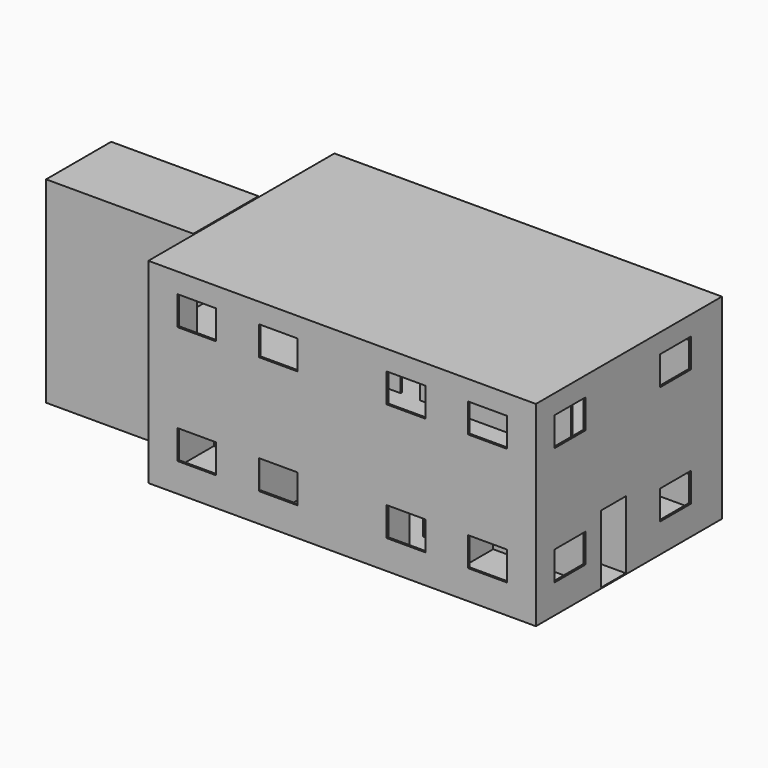
from build123d import *

# Parameters (mm, degrees)
F0_W      = 10000
F0_H      = 6000
F2_DEPTH  = 25
F1_W      = 807.6471351087
F1_H      = 50
F3_DEPTH  = 2500
F5_W      = 10000
F5_H      = 6000
F6_DEPTH  = 200
F7_W      = 50
F7_H      = 800
F7_W_2    = 807.6471351087
F7_H_2    = 50
F7_W_3    = 1750
F7_W_4    = 500
F7_H_3    = 500
F7_W_5    = 400
F8_DEPTH  = 750
F11_W     = 750
F11_H     = 1250
F12_DEPTH = 1000
F13_W     = 800
F13_H     = 1250
F14_DEPTH = 1000
F15_W     = 2000
F15_H     = 200
F16_DEPTH = 1000
F17_W     = 2100
F17_H     = 5075
F17_W_2   = 2000
F17_H_2   = 5000
F18_DEPTH = 3750
F19_W     = 2100
F19_H     = 5075
F20_DEPTH = 50
F21_W     = 50
F21_H     = 1000
F21_W_2   = 3950
F21_H_2   = 50
F21_W_3   = 3900
F22_DEPTH = 2500
F23_W     = 500
F23_H     = 50
F23_W_2   = 50
F23_H_2   = 1000
F23_W_3   = 3950
F23_W_4   = 3900
F24_DEPTH = 750
F25_W     = 10000
F25_H     = 6000
F26_DEPTH = 25
F27_W     = 1000
F27_H     = 750
F28_DEPTH = 50
F29_W     = 1000
F29_H     = 750
F30_DEPTH = 50
F31_W     = 1000
F31_H     = 750
F32_DEPTH = 50


with BuildPart() as f2:
    # F0 (on Top) → F2 (new body)
    with BuildSketch(Plane.XY):
        with Locations((5000, 3000)):
            Rectangle(F0_W, F0_H)
    extrude(amount=-F2_DEPTH)

    # F1 (on Top) → F3 (join)
    with BuildSketch(Plane.XY):
        Polygon((0, 2100), (0, 0), (2792.3528648913, 0), (2792.3528648913, 2100), (2300, 2100), (2300, 2050), (2742.3528648913, 2050), (2742.3528648913, 50), (50, 50), (50, 2050), (1800, 2050), (1800, 2100), align=None)
        Polygon((2792.3528648913, 2100), (2792.3528648913, 0), (4192.3528648913, 0), (4192.3528648913, 50), (4192.3528648913, 1100), (4142.3528648913, 1100), (4142.3528648913, 50), (2842.3528648913, 50), (2842.3528648913, 2050), (4142.3528648913, 2050), (4142.3528648913, 1600), (4192.3528648913, 1600), (4192.3528648913, 2100), align=None)
        with Locations((4596.1764324456, 25)):
            Rectangle(F1_W, F1_H)
        Polygon((2800, 6000), (0, 6000), (0, 2900), (1800, 2900), (1800, 2950), (50, 2950), (50, 5950), (2750, 5950), (2750, 2950), (2303.6937713623, 2950), (2300, 2900), (2800, 2900), align=None)
        Polygon((4600, 6000), (2800, 6000), (2800, 2900), (3300, 2900), (3300, 2950), (2850, 2950), (2850, 5950), (4550, 5950), (4550, 2950), (3800.9090423584, 2950), (3800, 2900), (4600, 2900), align=None)
    extrude(amount=F3_DEPTH)

    # F5 (on offset) → F6 (join)
    with BuildSketch(Plane.XY.offset(2500)):
        with Locations((5000, 3000)):
            Rectangle(F5_W, F5_H)
    extrude(amount=-F6_DEPTH)

    # F7 (on offset) → F8 (join)
    with BuildSketch(Plane.XY.offset(2500)):
        Polygon((0, 2100), (0, 0), (2792.3528648913, 0), (2792.3528648913, 2100), (2300, 2100), (2300, 2050), (2742.3528648913, 2050), (2742.3528648913, 50), (50, 50), (50, 2050), (50, 2100), align=None)
        Polygon((2792.3528648913, 2100), (2792.3528648913, 0), (4192.3528648913, 0), (4192.3528648913, 50), (4192.3528648913, 1100), (4142.3528648913, 1100), (4142.3528648913, 50), (2842.3528648913, 50), (2842.3528648913, 2050), (4142.3528648913, 2050), (4142.3528648913, 1600), (4192.3528648913, 1600), (4192.3528648913, 2100), align=None)
        with Locations((25, 2500)):
            Rectangle(F7_W, F7_H)
        with Locations((4596.1764324456, 25)):
            Rectangle(F7_W_2, F7_H_2)
        with Locations((925, 2075)):
            Rectangle(F7_W_3, F7_H_2)
        Polygon((0, 6000), (0, 2900), (50, 2900), (50, 2950), (50, 5950), (2750, 5950), (2750, 2950), (2303.6937713623, 2950), (2300, 2900), (2800, 2900), (2800, 6000), align=None)
        with Locations((2050, 2075)):
            Rectangle(F7_W_4, F7_H_2)
        with Locations((925, 2925)):
            Rectangle(F7_W_3, F7_H_2)
        with Locations((4167.3528648913, 1350)):
            Rectangle(F7_W, F7_H_3)
        Polygon((1800, 2950), (1800, 2900), (2300, 2900), (2303.6937713623, 2950), align=None)
        Polygon((4600, 6000), (2800, 6000), (2800, 2900), (3300, 2900), (3300, 2950), (2850, 2950), (2850, 5950), (4550, 5950), (4600, 5950), align=None)
        with Locations((4800, 5975)):
            Rectangle(F7_W_5, F7_H_2)
        Polygon((4600, 2900), (4600, 5950), (4550, 5950), (4550, 2950), (3800.9090423584, 2950), (3800, 2900), align=None)
        Polygon((3300, 2950), (3300, 2900), (3800, 2900), (3800.9090423584, 2950), align=None)
    extrude(amount=-F8_DEPTH)

    # F9: F2 across face


with BuildPart() as f2_1:
    add(f2.part)
    add(f2.part.mirror(Plane(origin=(5000, 25, 1150), x_dir=(0, 1, 0), z_dir=(1, 0, 0))))



with BuildPart() as f12:
    # F11 (on offset) → F12 (new body)
    with BuildSketch(Plane.XZ.offset(-2500)):
        Polygon((-1181.8181, 0), (-1000, 0), (-1181.8181, 113.6363125), align=None)
        Polygon((-1181.8181, 113.6363125), (-1000, 0), (-1000, 113.6363125), align=None)
        Polygon((-1363.6362, 0), (-1181.8181, 0), (-1181.8181, 113.6363125), (-1363.6362, 227.272625), align=None)
        Polygon((-1363.6362, 227.272625), (-1181.8181, 113.6363125), (-1181.8181, 227.272625), align=None)
        Polygon((-1545.4543, 0), (-1363.6362, 0), (-1363.6362, 227.272625), (-1545.4543, 340.9089375), align=None)
        Polygon((-1545.4543, 340.9089375), (-1363.6362, 227.272625), (-1363.6362, 340.9089375), align=None)
        Polygon((-1727.2723, 0), (-1545.4543, 0), (-1545.4543, 340.9089375), (-1727.2723, 454.5451875), align=None)
        Polygon((-1727.2723, 454.5451875), (-1545.4543, 340.9089375), (-1545.4543, 454.5451875), align=None)
        Polygon((-1909.0903, 0), (-1727.2723, 0), (-1727.2723, 454.5451875), (-1909.0903, 568.1814375), align=None)
        Polygon((-1909.0903, 568.1814375), (-1727.2723, 454.5451875), (-1727.2723, 568.1814375), align=None)
        Polygon((-2090.90218, 0), (-1909.0903, 0), (-1909.0903, 568.1814375), (-2090.90218, 681.8138625), align=None)
        Polygon((-2090.90218, 681.8138625), (-1909.0903, 568.1814375), (-1909.0903, 681.8138625), align=None)
        Polygon((-2272.72028, 0), (-2090.90218, 0), (-2090.90218, 681.8138625), (-2272.72028, 795.450175), align=None)
        Polygon((-2272.72028, 795.450175), (-2090.90218, 681.8138625), (-2090.90218, 795.450175), align=None)
        Polygon((-2454.53838, 0), (-2272.72028, 0), (-2272.72028, 795.450175), (-2454.53838, 909.0864875), align=None)
        Polygon((-2454.53838, 909.0864875), (-2272.72028, 795.450175), (-2272.72028, 909.0864875), align=None)
        Polygon((-2636.35638, 0), (-2454.53838, 0), (-2454.53838, 909.0864875), (-2636.35638, 1022.7227375), align=None)
        Polygon((-2636.35638, 1022.7227375), (-2454.53838, 909.0864875), (-2454.53838, 1022.7227375), align=None)
        Polygon((-2818.17448, 0), (-2636.35638, 0), (-2636.35638, 1022.7227375), (-2818.17448, 1136.35905), align=None)
        Polygon((-2818.17448, 1136.35905), (-2636.35638, 1022.7227375), (-2636.35638, 1136.35905), align=None)
        Polygon((-3000, 0), (-2818.17448, 0), (-2818.17448, 1136.35905), (-3000, 1250), align=None)
        Polygon((-3000, 1250), (-2818.17448, 1136.35905), (-2818.17448, 1250), align=None)
        with Locations((-3375, 625)):
            Rectangle(F11_W, F11_H)
    extrude(amount=-F12_DEPTH)

    # F13 (on offset) → F14 (join)
    with BuildSketch(Plane.XZ.offset(-2500)):
        with Locations((-3350, 625)):
            Rectangle(F13_W, F13_H)
        Polygon((-2950, 1250), (-2950, 0), (-950, 0), (-950, 1250), (-1131.8438, 1250), (-1313.6538, 1250), (-1495.4718, 1250), (-1677.2899, 1250), (-1859.0999, 1250), (-2040.9179, 1250), (-2222.7359, 1250), (-2404.5459, 1250), (-2586.3639, 1250), (-2768.1819, 1250), align=None)
        Polygon((-2768.1819, 1363.6363125), (-2950, 1250), (-2768.1819, 1250), align=None)
        Polygon((-2950, 1363.6363125), (-2950, 1250), (-2768.1819, 1363.6363125), align=None)
        Polygon((-2768.1819, 1363.6363125), (-2768.1819, 1250), (-2586.3639, 1250), (-2586.3639, 1477.2725625), align=None)
        Polygon((-2768.1819, 1477.2725625), (-2768.1819, 1363.6363125), (-2586.3639, 1477.2725625), align=None)
        Polygon((-1131.8438, 1250), (-950, 1250), (-950, 2500), (-1131.8438, 2386.347625), align=None)
        Polygon((-2586.3639, 1477.2725625), (-2586.3639, 1250), (-2404.5459, 1250), (-2404.5459, 1590.9088125), align=None)
        Polygon((-2586.3639, 1590.9088125), (-2586.3639, 1477.2725625), (-2404.5459, 1590.9088125), align=None)
        Polygon((-1313.6538, 1250), (-1131.8438, 1250), (-1131.8438, 2386.347625), (-1313.6538, 2272.716375), align=None)
        Polygon((-1131.8438, 2386.347625), (-950, 2500), (-1131.8438, 2500), align=None)
        Polygon((-2404.5459, 1590.9088125), (-2404.5459, 1250), (-2222.7359, 1250), (-2222.7359, 1704.5400625), align=None)
        Polygon((-2404.5459, 1704.5400625), (-2404.5459, 1590.9088125), (-2222.7359, 1704.5400625), align=None)
        Polygon((-1495.4718, 1250), (-1313.6538, 1250), (-1313.6538, 2272.716375), (-1495.4718, 2159.080125), align=None)
        Polygon((-1313.6538, 2272.716375), (-1131.8438, 2386.347625), (-1313.6538, 2386.347625), align=None)
        Polygon((-2222.7359, 1704.5400625), (-2222.7359, 1250), (-2040.9179, 1250), (-2040.9179, 1818.1763125), align=None)
        Polygon((-2222.7359, 1818.1763125), (-2222.7359, 1704.5400625), (-2040.9179, 1818.1763125), align=None)
        Polygon((-1677.2899, 1250), (-1495.4718, 1250), (-1495.4718, 2159.080125), (-1677.2899, 2045.4438125), align=None)
        Polygon((-1495.4718, 2159.080125), (-1313.6538, 2272.716375), (-1495.4718, 2272.716375), align=None)
        Polygon((-2040.9179, 1818.1763125), (-2040.9179, 1250), (-1859.0999, 1250), (-1859.0999, 1931.8125625), align=None)
        Polygon((-2040.9179, 1931.8125625), (-2040.9179, 1818.1763125), (-1859.0999, 1931.8125625), align=None)
        Polygon((-1859.0999, 1250), (-1677.2899, 1250), (-1677.2899, 2045.4438125), (-1859.0999, 1931.8125625), align=None)
        Polygon((-1677.2899, 2045.4438125), (-1495.4718, 2159.080125), (-1677.2899, 2159.080125), align=None)
        Polygon((-1859.0999, 2045.4438125), (-1859.0999, 1931.8125625), (-1677.2899, 2045.4438125), align=None)
    extrude(amount=F14_DEPTH)


with BuildPart() as f2_2:
    add(f2_1.part)

    add(f12.part)  # F16 merges F12
    # F15 (on face) → F16 (join)
    with BuildSketch(Plane(origin=(0, 0, 0), x_dir=(0, -1, 0), z_dir=(-1, 0, 0))):
        with Locations((-2500, 2400)):
            Rectangle(F15_W, F15_H)
    extrude(amount=F16_DEPTH)

    # F17 (on face) → F18 (join)
    with BuildSketch(Plane(origin=(-3750, 0, 0), x_dir=(0, -1, 0), z_dir=(-1, 0, 0))):
        with Locations((-2500, 2512.5)):
            Rectangle(F17_W, F17_H)
        with Locations((-2500, 2500)):
            Rectangle(F17_W_2, F17_H_2, mode=Mode.SUBTRACT)
    extrude(amount=-F18_DEPTH)

    # F19 (on face) → F20 (join)
    with BuildSketch(Plane(origin=(-3750, 0, 0), x_dir=(0, -1, 0), z_dir=(-1, 0, 0))):
        with Locations((-2500, 2512.5)):
            Rectangle(F19_W, F19_H)
    extrude(amount=F20_DEPTH)

    # F21 (on face) → F22 (join)
    with BuildSketch(Plane.XY.offset(2500)):
        Polygon((4000, 6000), (0, 6000), (0, 3550), (0, 3500), (2950, 3500), (2950, 3550), (50, 3550), (50, 5950), (3950, 5950), (3950, 3550), (3450, 3550), (3450, 3500), (4000, 3500), align=None)
        Polygon((7500, 6000), (4000, 6000), (4000, 3500), (4550, 3500), (4550, 3550), (4050, 3550), (4050, 5950), (7450, 5950), (7450, 3550), (5050, 3550), (5050, 3500), (7500, 3500), align=None)
        Polygon((10000, 6000), (7500, 6000), (7500, 3500), (8050, 3500), (8050, 3550), (7550, 3550), (7550, 5950), (9950, 5950), (9950, 3550), (8550, 3550), (8550, 3500), (9950, 3500), (10000, 3500), align=None)
        with Locations((9975, 3000)):
            Rectangle(F21_W, F21_H)
        Polygon((10000, 0), (10000, 2500), (9950, 2500), (9450, 2500), (9450, 2450), (9950, 2450), (9950, 50), (4050, 50), (4050, 2450), (4550, 2450), (4550, 2500), (4000, 2500), (4000, 50), (4000, 0), align=None)
        with Locations((2025, 25)):
            Rectangle(F21_W_2, F21_H_2)
        Polygon((0, 0), (50, 0), (50, 50), (50, 1500), (0, 1500), (0, 1450), align=None)
        with Locations((7000, 2475)):
            Rectangle(F21_W_3, F21_H_2)
    extrude(amount=F22_DEPTH)

    # F23 (on face) → F24 (join)
    with BuildSketch(Plane.XY.offset(5000)):
        Polygon((4000, 6000), (0, 6000), (0, 3550), (0, 3500), (2950, 3500), (2950, 3550), (50, 3550), (50, 5950), (3950, 5950), (3950, 3550), (3450, 3550), (3450, 3500), (4000, 3500), align=None)
        Polygon((7500, 6000), (4000, 6000), (4000, 3500), (4550, 3500), (4550, 3550), (4050, 3550), (4050, 5950), (7450, 5950), (7450, 3550), (5050, 3550), (5050, 3500), (7500, 3500), align=None)
        Polygon((10000, 6000), (7500, 6000), (7500, 3500), (8050, 3500), (8050, 3550), (7550, 3550), (7550, 5950), (9950, 5950), (9950, 3550), (8550, 3550), (8550, 3500), (9950, 3500), (10000, 3500), align=None)
        with Locations((4800, 3525)):
            Rectangle(F23_W, F23_H)
        with Locations((3200, 3525)):
            Rectangle(F23_W, F23_H)
        with Locations((9975, 3000)):
            Rectangle(F23_W_2, F23_H_2)
        with Locations((8300, 3525)):
            Rectangle(F23_W, F23_H)
        Polygon((10000, 0), (10000, 2500), (9950, 2500), (9450, 2500), (9450, 2450), (9950, 2450), (9950, 50), (4050, 50), (4050, 2450), (4550, 2450), (4550, 2500), (4000, 2500), (4000, 50), (4000, 0), align=None)
        with Locations((2025, 25)):
            Rectangle(F23_W_3, F23_H)
        with Locations((9200, 2475)):
            Rectangle(F23_W, F23_H)
        Polygon((0, 0), (50, 0), (50, 50), (50, 1500), (0, 1500), (0, 1450), align=None)
        with Locations((7000, 2475)):
            Rectangle(F23_W_4, F23_H)
        with Locations((4800, 2475)):
            Rectangle(F23_W, F23_H)
    extrude(amount=-F24_DEPTH)

    # F25 (on face) → F26 (join)
    with BuildSketch(Plane.XY.offset(5000)):
        with Locations((5000, 3000)):
            Rectangle(F25_W, F25_H)
    extrude(amount=F26_DEPTH)

    # F27 (on face) → F28 (cut)
    with BuildSketch(Plane(origin=(0, 6000, 0), x_dir=(-1, 0, 0), z_dir=(0, 1, 0))):
        with Locations((-3350, 1125)):
            Rectangle(F27_W, F27_H)
        with Locations((-1250, 1125)):
            Rectangle(F27_W, F27_H)
        with Locations((-3350, 4167.3908233643)):
            Rectangle(F27_W, F27_H)
        with Locations((-1250, 4167.3908233643)):
            Rectangle(F27_W, F27_H)
        with Locations((-8750, 1125)):
            Rectangle(F27_W, F27_H)
        with Locations((-6650, 1125)):
            Rectangle(F27_W, F27_H)
        with Locations((-8750, 4167.3908233643)):
            Rectangle(F27_W, F27_H)
        with Locations((-6650, 4167.3908233643)):
            Rectangle(F27_W, F27_H)
    extrude(amount=-F28_DEPTH, mode=Mode.SUBTRACT)

    # F29 (on face) → F30 (cut)
    with BuildSketch(Plane.XZ):
        with Locations((6650, 1100)):
            Rectangle(F29_W, F29_H)
        with Locations((8750, 1100)):
            Rectangle(F29_W, F29_H)
        with Locations((6650, 4137.3906135559)):
            Rectangle(F29_W, F29_H)
        with Locations((8750, 4137.3906135559)):
            Rectangle(F29_W, F29_H)
        with Locations((1250, 1094.9997901917)):
            Rectangle(F29_W, F29_H)
        with Locations((3350, 1094.9997901917)):
            Rectangle(F29_W, F29_H)
        with Locations((1250, 4137.3906135559)):
            Rectangle(F29_W, F29_H)
        with Locations((3350, 4137.3906135559)):
            Rectangle(F29_W, F29_H)
    extrude(amount=-F30_DEPTH, mode=Mode.SUBTRACT)

    # F31 (on face) → F32 (cut)
    with BuildSketch(Plane.YZ.offset(10000)):
        with Locations((1100, 1100)):
            Rectangle(F31_W, F31_H)
        with Locations((4500, 1100)):
            Rectangle(F31_W, F31_H)
        with Locations((1100, 4150)):
            Rectangle(F31_W, F31_H)
        with Locations((4500, 4150)):
            Rectangle(F31_W, F31_H)
    extrude(amount=-F32_DEPTH, mode=Mode.SUBTRACT)


solid = f2_2.part
